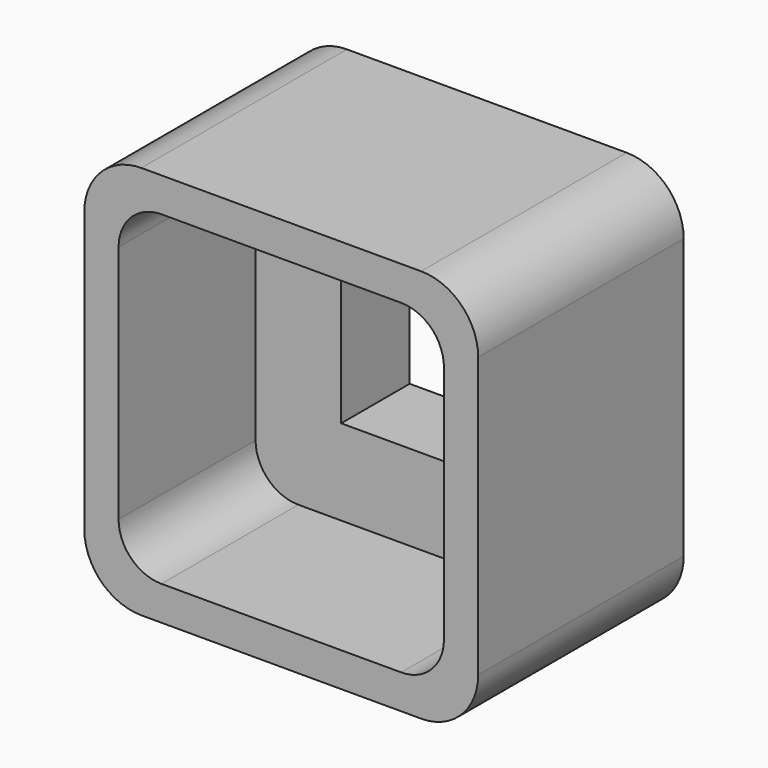
from build123d import *

# Parameters (mm, degrees)
F0_W     = 13.8
F0_H     = 13.8
F1_DEPTH = 9
F2_W     = 5.4
F2_H     = 5.4
F3_DEPTH = 9.001
F4_W     = 11.4
F4_H     = 11.4
F5_DEPTH = 6
F6_R     = 2
F7_R     = 1.5


with BuildPart() as f1:
    # F0 (on Front) → F1 (new body)
    with BuildSketch(Plane.XZ):
        Rectangle(F0_W, F0_H)
    extrude(amount=F1_DEPTH)

    # F2 (on Front) → F3 (cut, through all)
    with BuildSketch(Plane.XZ):
        Rectangle(F2_W, F2_H)
    extrude(amount=F3_DEPTH, mode=Mode.SUBTRACT)

    # F4 (on face) → F5 (cut)
    with BuildSketch(Plane.XZ.offset(9)):
        Rectangle(F4_W, F4_H)
    extrude(amount=-F5_DEPTH, mode=Mode.SUBTRACT)

    # F6
    f6_edges = [f1.edges().sort_by_distance(p)[0] for p in [
        (-6.9, -4.5, 6.9),
        (-6.9, -4.5, -6.9),
        (6.9, -4.5, 6.9),
        (6.9, -4.5, -6.9),
    ]]
    fillet(f6_edges, radius=F6_R)

    # F7
    f7_edges = [f1.edges().sort_by_distance(p)[0] for p in [
        (-5.7, -6, 5.7),
        (5.7, -6, 5.7),
        (-5.7, -6, -5.7),
        (5.7, -6, -5.7),
    ]]
    fillet(f7_edges, radius=F7_R)


solid = f1.part
